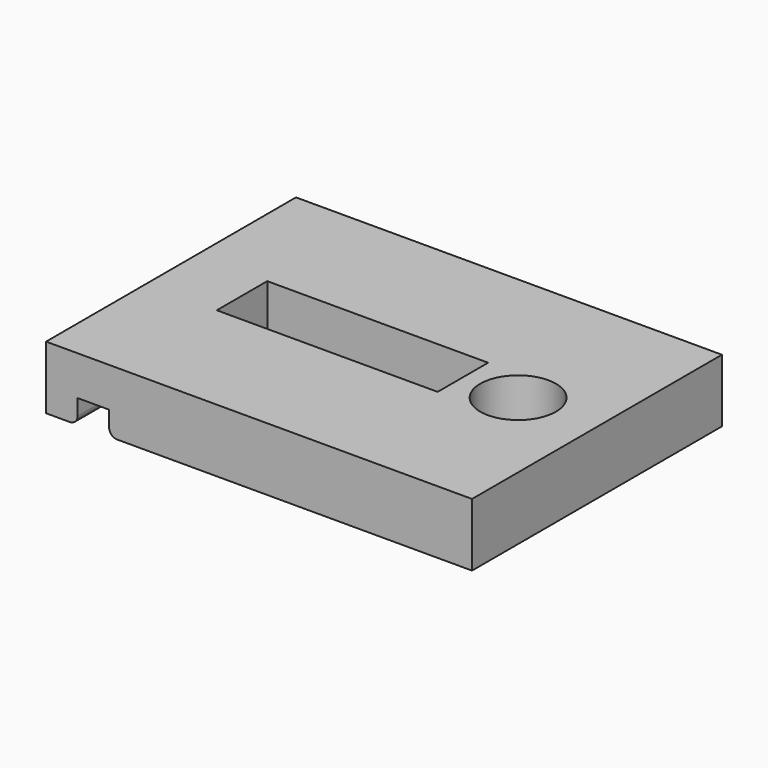
from build123d import *

# Parameters (mm, degrees)
F1_DEPTH      = 9.9
F1_DEPTH_BACK = 9.9
F2_R          = 2.4
F3_DEPTH      = 4.001
F4_R          = 0.5
F5_W          = 14
F5_H          = 4
F6_DEPTH      = 4.001


with BuildPart() as f1:
    # F0 (on Front) → F1 (new body, two sides)
    with BuildSketch(Plane.XZ) as f1_sk:
        Polygon((-23, 0), (0, 0), (0, 4), (-27, 4), (-27, 0), (-25, 0), (-25, 1.5), (-23, 1.5), align=None)
    extrude(amount=F1_DEPTH)
    extrude(f1_sk.sketch, amount=-F1_DEPTH_BACK)

    # F2 (on face) → F3 (cut, through all)
    with BuildSketch(Plane.XY.offset(4)):
        with Locations((-5, 0)):
            Circle(F2_R)
    extrude(amount=-F3_DEPTH, mode=Mode.SUBTRACT)

    # F4
    f4_edges = [f1.edges().sort_by_distance(p)[0] for p in [
        (-25, 0, 0),
        (-23, 0, 0),
    ]]
    fillet(f4_edges, radius=F4_R)

    # F5 (on face) → F6 (cut, through all)
    with BuildSketch(Plane(origin=(0, 0, 0), x_dir=(1, 0, 0), z_dir=(0, 0, -1))):
        with Locations((-15.5, 0)):
            Rectangle(F5_W, F5_H)
    extrude(amount=-F6_DEPTH, mode=Mode.SUBTRACT)


solid = f1.part
